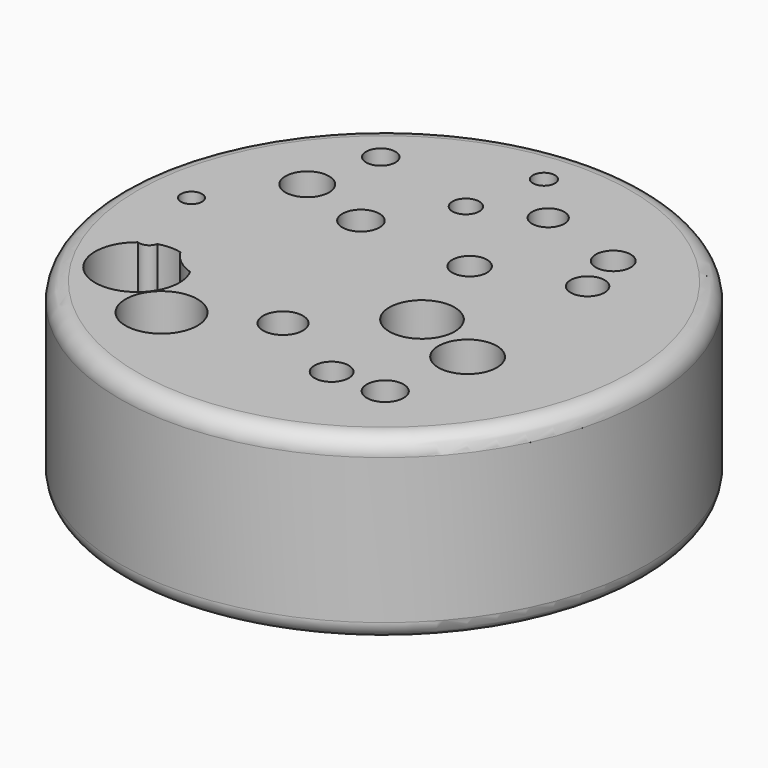
from build123d import *

# Parameters (mm, degrees)
F0_R     = 76.2
F1_DEPTH = 52.07
F2_R     = 5.08
F3_R     = 5.3715880148
F3_R_2   = 4.2370614404
F3_R_3   = 6.3108884309
F3_R_4   = 3.8766310323
F3_R_5   = 4.6528327754
F3_R_6   = 3.1865727254
F3_R_7   = 5.0301198982
F3_R_8   = 4.907734168
F3_R_9   = 9.4320215761
F3_R_10  = 8.4400514289
F3_R_11  = 5.3159973794
F3_R_12  = 4.9419144622
F3_R_13  = 5.7632073099
F3_R_14  = 10.3738042339
F3_R_15  = 5.05451088
F3_R_16  = 3.0558865435
F4_DEPTH = 52.0710001


with BuildPart() as f1:
    # F0 (on Top) → F1 (new body)
    with BuildSketch(Plane.XY):
        Circle(F0_R)
    extrude(amount=F1_DEPTH)

    # F2
    f2_edges = [f1.edges().sort_by_distance(p)[0] for p in [
        (-76.2, 0, 0),
        (-76.2, 0, 52.07),
    ]]
    fillet(f2_edges, radius=F2_R)

    # F3 (on face) → F4 (cut, through all)
    with BuildSketch(Plane.XY.offset(52.07)):
        with BuildLine():
            ThreePointArc((-37.009803901, -23.6505497776), (-41.4263644142, -21.2516242438), (-44.7620251929, -17.4920740509))
            ThreePointArc((-44.7620251929, -17.4920740509), (-48.0466092381, -17.1106960922), (-51.3124818641, -17.6284001476))
            ThreePointArc((-51.3124818641, -17.6284001476), (-52.8076132814, -19.5680988122), (-55.2546881101, -19.6664535121))
            ThreePointArc((-55.2546881101, -19.6664535121), (-53.1375621362, -40.1879116404), (-35.6350277314, -29.2666591704))
            ThreePointArc((-35.6350277314, -29.2666591704), (-35.9837218408, -26.375695048), (-37.009803901, -23.6505497776))
        make_face()
        with Locations((-22.6189903915, 19.9577584863)):
            Circle(F3_R)
        with Locations((-38.4934768081, 46.9580106437)):
            Circle(F3_R_2)
        with Locations((-43.1242734194, 26.2293871492)):
            Circle(F3_R_3)
        with Locations((-8.4645338356, 40.1057675481)):
            Circle(F3_R_4)
        with Locations((9.4722164795, 47.361087054)):
            Circle(F3_R_5)
        with Locations((-3.0230483972, 61.468642205)):
            Circle(F3_R_6)
        with Locations((10.4064103216, 17.884016037)):
            Circle(F3_R_7)
        with Locations((37.2842587531, 26.8043577671)):
            Circle(F3_R_8)
        with Locations((18.2558577508, -9.1234976426)):
            Circle(F3_R_9)
        with Locations((37.6561321318, -16.9201008976)):
            Circle(F3_R_10)
        with Locations((33.640883863, -41.6150391102)):
            Circle(F3_R_11)
        with Locations((18.300132826, -41.7637899518)):
            Circle(F3_R_12)
        with Locations((-5.0592576154, -30.087729916)):
            Circle(F3_R_13)
        with Locations((-29.7136716545, -43.0898442864)):
            Circle(F3_R_14)
        with Locations((34.0596735477, 40.1057675481)):
            Circle(F3_R_15)
        with Locations((-59.3534111977, 4.7666169703)):
            Circle(F3_R_16)
    extrude(amount=-F4_DEPTH, mode=Mode.SUBTRACT)


solid = f1.part
